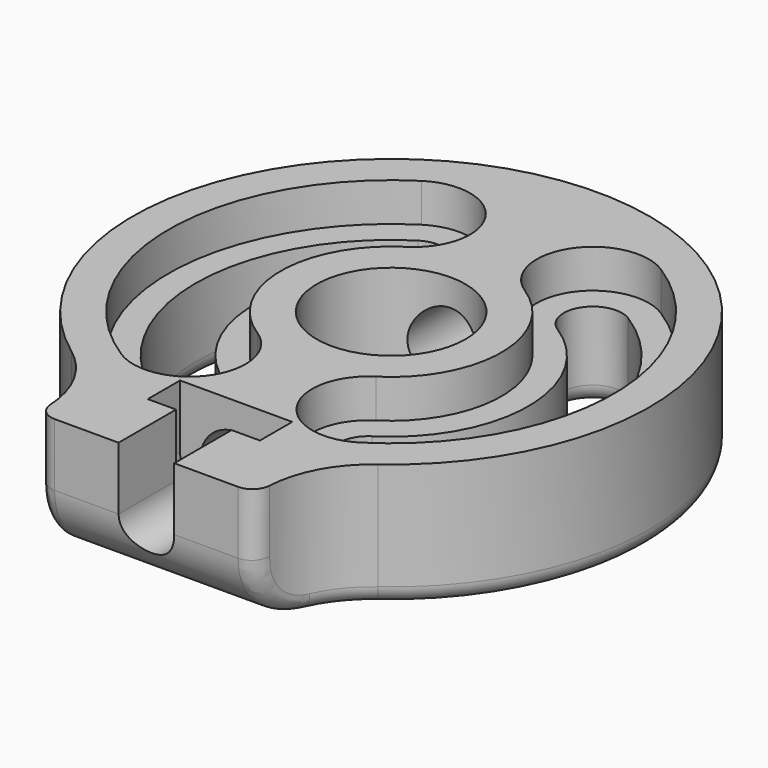
from build123d import *

# Parameters (mm, degrees)
SKETCH_R          = 4.15
EXTRUDE_DEPTH     = 7
FILLET_R          = 6
POCKET_DEPTH      = 20.501
POCKET_DEPTH_BACK = 8.301
SKETCH002_R       = 1.55
POCKET001_DEPTH   = 4
SKETCH003_R       = 2
POCKET002_DEPTH   = 27.445156
POCKET003_DEPTH   = 3.5
POCKET004_DEPTH   = 2.25
POCKET005_DEPTH   = 2.15
FILLET001_R       = 1


with BuildPart() as part:
    # Sketch → Extrude (new body)
    with BuildSketch(Plane.XY):
        with BuildLine():
            ThreePointArc((6.1, -13.044156), (0, 14.4), (-6.1, -13.044156))
            Line((-6.1, -17.044156), (-6.1, -13.044156))
            Line((6.1, -17.044156), (-6.1, -17.044156))
            Line((6.1, -13.044156), (6.1, -17.044156))
        make_face()
        Circle(SKETCH_R, mode=Mode.SUBTRACT)
        with BuildLine():
            ThreePointArc((-4.110342, 6.451945), (-7.65, 0), (-4.110342, -6.451945))
            ThreePointArc((-5.856566, -9.192967), (-3.612943, -8.695568), (-4.110342, -6.451945))
            ThreePointArc((-5.856566, 9.192967), (-10.9, 0), (-5.856566, -9.192967))
            ThreePointArc((-4.110342, 6.451945), (-3.612943, 8.695568), (-5.856566, 9.192967))
        make_face(mode=Mode.SUBTRACT)
        with BuildLine():
            ThreePointArc((4.110342, -6.451945), (7.65, 0), (4.110342, 6.451945))
            ThreePointArc((5.856566, 9.192967), (3.612943, 8.695568), (4.110342, 6.451945))
            ThreePointArc((5.856566, -9.192967), (10.9, 0), (5.856566, 9.192967))
            ThreePointArc((4.110342, -6.451945), (3.612943, -8.695568), (5.856566, -9.192967))
        make_face(mode=Mode.SUBTRACT)
    extrude(amount=EXTRUDE_DEPTH)

    # Fillet
    fillet_edges = [part.edges().sort_by_distance(p)[0] for p in [
        (6.1, -13.044156, 3.5),
        (-6.1, -13.044156, 3.5),
    ]]
    fillet(fillet_edges, radius=FILLET_R)

    # Sketch001 → Pocket (cut, two sides)
    with BuildSketch(Plane.YZ.offset(6.1)) as pocket_sk:
        with BuildLine():
            Line((-17.044156, 3.5), (-17.044156, 0))
            Line((-17.044156, 0), (-13.544156, 0))
            ThreePointArc((-17.044156, 3.5), (-16.01903, 1.025126), (-13.544156, 0))
        make_face()
    extrude(amount=-POCKET_DEPTH, mode=Mode.SUBTRACT)
    extrude(pocket_sk.sketch, amount=POCKET_DEPTH_BACK, mode=Mode.SUBTRACT)

    # Sketch002 → Pocket001 (cut)
    with BuildSketch(Plane.XZ.offset(17.044156)):
        with Locations((0, 3.5)):
            Circle(SKETCH002_R)
    extrude(amount=-POCKET001_DEPTH, mode=Mode.SUBTRACT)

    # Sketch003 → Pocket002 (cut, through all)
    with BuildSketch(Plane.XZ.offset(13.044156)):
        with Locations((0, 3.5)):
            Circle(SKETCH003_R)
    extrude(amount=-POCKET002_DEPTH, mode=Mode.SUBTRACT)

    # Sketch004 → Pocket003 (cut)
    with BuildSketch(Plane.XY.offset(7)):
        Polygon((-3.125, -10.794156), (-3.125, -13.044156), (-1.55, -13.044156), (-1.55, -17.044156), (1.55, -17.044156), (1.55, -13.044156), (3.125, -13.044156), (3.125, -10.794156), align=None)
    extrude(amount=-POCKET003_DEPTH, mode=Mode.SUBTRACT)

    # Sketch005 → Pocket004 (cut)
    with BuildSketch(Plane.XZ.offset(10.794156)):
        with BuildLine():
            Line((-3.125, 3.5), (3.125, 3.5))
            ThreePointArc((-3.125, 3.5), (0, 0.375), (3.125, 3.5))
        make_face()
    extrude(amount=POCKET004_DEPTH, mode=Mode.SUBTRACT)

    # Sketch006 → Pocket005 (cut)
    with BuildSketch(Plane.XY.offset(7)):
        with BuildLine():
            ThreePointArc((-3.304393, 5.186857), (-2.347856, 9.501517), (-6.662515, 10.458054))
            ThreePointArc((-6.662515, 10.458054), (-12.4, 0), (-6.662515, -10.458054))
            ThreePointArc((-6.662515, -10.458054), (-2.347856, -9.501517), (-3.304393, -5.186857))
            ThreePointArc((-3.304393, 5.186857), (-6.15, 0), (-3.304393, -5.186857))
        make_face()
        with BuildLine():
            ThreePointArc((6.662515, 10.458054), (2.347856, 9.501517), (3.304393, 5.186857))
            ThreePointArc((3.304393, -5.186857), (6.15, 0), (3.304393, 5.186857))
            ThreePointArc((3.304393, -5.186857), (2.347856, -9.501517), (6.662515, -10.458054))
            ThreePointArc((6.662515, -10.458054), (12.4, 0), (6.662515, 10.458054))
        make_face()
    extrude(amount=-POCKET005_DEPTH, mode=Mode.SUBTRACT)

    # Fillet001
    fillet001_edges = [part.edges().sort_by_distance(p)[0] for p in [
        (0, 14.4, 0),
        (7.582218, -12.475695, 0),
        (-7.582218, -12.475695, 0),
        (-3.612943, 8.695568, 0),
        (-7.65, 0, 0),
        (-10.9, 0, 0),
        (-3.612943, -8.695568, 0),
        (-4.15, 0, 0),
        (7.65, 0, 0),
        (3.612943, -8.695568, 0),
        (3.612943, 8.695568, 0),
        (10.9, 0, 0),
        (6.242385, -15.124706, 0.377203),
        (-6.242385, -15.124706, 0.377203),
        (6.1, -16.88554, 2.458293),
        (-6.1, -16.88554, 2.458293),
        (6.1, -17.044156, 5.25),
        (-6.1, -17.044156, 5.25),
    ]]
    fillet(fillet001_edges, radius=FILLET001_R)


solid = part.part
